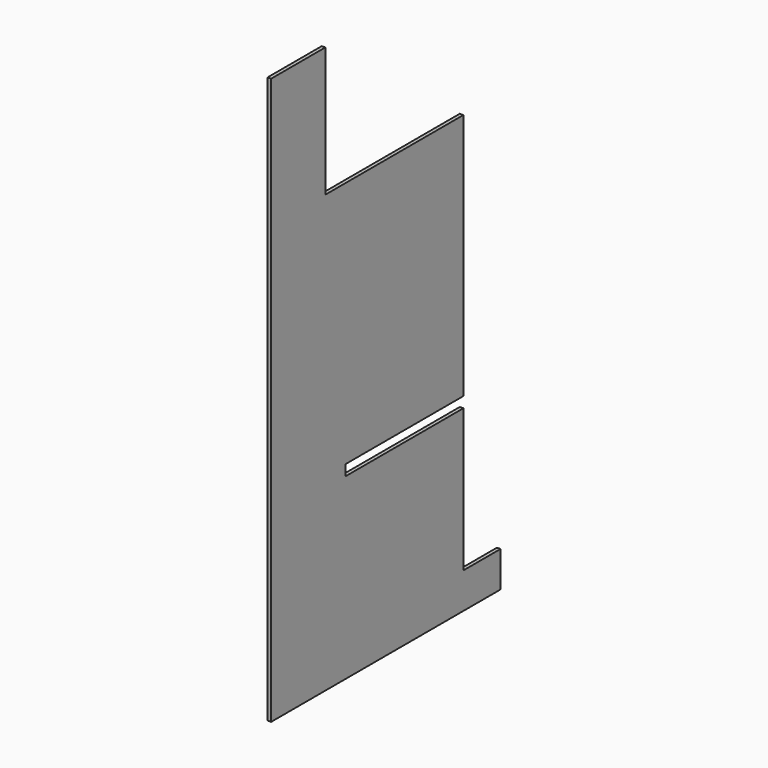
from build123d import *

# Parameters (mm, degrees)
F1_DEPTH = 6


with BuildPart() as f1:
    # F0 (on Right) → F1 (new body)
    with BuildSketch(Plane.YZ):
        Polygon((-368, 218), (-482, 218), (-482, -734), (0, -734), (0, -674), (-60, -674), (-78, -674), (-78, -434), (-326, -434), (-326, -416), (-78, -416), (-78, 0), (-368, 0), align=None)
    extrude(amount=F1_DEPTH)


solid = f1.part
